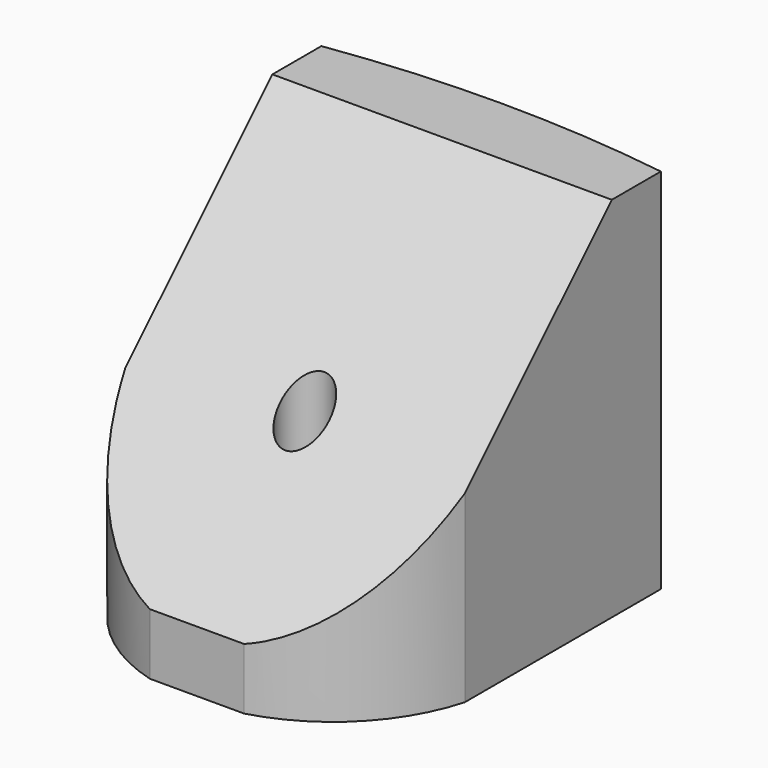
from build123d import *

# Parameters (mm, degrees)
F0_W     = 27.7
F0_H     = 30
F1_DEPTH = 30
F5_DEPTH = 27.701
F6_R     = 2
F7_DEPTH = 30.001


with BuildPart() as f1:
    # F0 (on Top) → F1 (new body)
    with BuildSketch(Plane.XY):
        Rectangle(F0_W, F0_H)
    extrude(amount=F1_DEPTH)

    # F0 (on Top) → F4 section 0
    with BuildSketch(Plane.XY):
        with BuildLine():
            Line((-13.85, 15), (13.85, 15))
            ThreePointArc((13.85, 15), (0, 16), (-13.85, 15))
        make_face()
    # F3 (on face) → F4 section 1
    with BuildSketch(Plane.XY.offset(30)):
        with BuildLine():
            Line((-13.85, 15), (13.85, 15))
            ThreePointArc((13.85, 15), (0, 15.99788), (-13.85, 15))
        make_face()
    loft()

    # F2 (on face) → F5 (cut, through all)
    with BuildSketch(Plane.YZ.offset(13.85)):
        Polygon((-15, 5), (10, 30), (-15, 30), align=None)
    extrude(amount=-F5_DEPTH, mode=Mode.SUBTRACT)

    # F6 (on face) → F7 (cut, through all)
    with BuildSketch(Plane(origin=(0, 0, 0), x_dir=(1, 0, 0), z_dir=(0, 0, -1))):
        with Locations((0, 4)):
            Circle(F6_R)
        with BuildLine():
            Line((13.85, 5), (13.85, 15))
            Line((13.85, 15), (3.85, 15))
            ThreePointArc((3.85, 15), (10.164768, 11.314768), (13.85, 5))
        make_face()
        with BuildLine():
            Line((-13.85, 15), (-13.85, 5))
            ThreePointArc((-13.85, 5), (-10.164768, 11.314768), (-3.85, 15))
            Line((-3.85, 15), (-13.85, 15))
        make_face()
    extrude(amount=-F7_DEPTH, mode=Mode.SUBTRACT)


solid = f1.part
